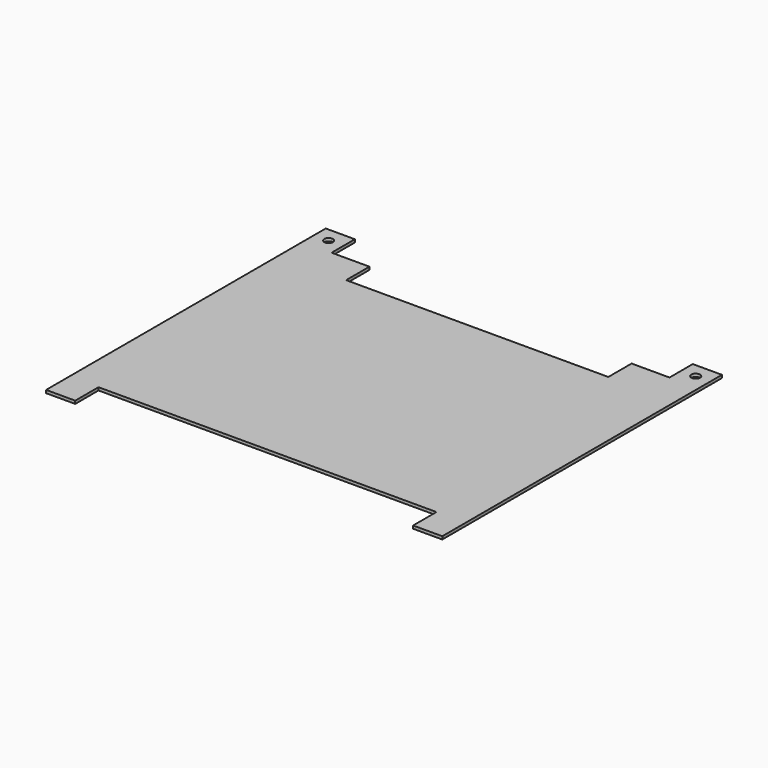
from build123d import *

# Parameters (mm, degrees)
F0_W     = 136
F0_H     = 120
F1_DEPTH = 1
F2_W     = 116
F2_H     = 10
F3_DEPTH = 1
F4_R     = 1.5
F5_DEPTH = 1


with BuildPart() as f1:
    # F0 (on Top) → F1 (new body)
    with BuildSketch(Plane.XY):
        Rectangle(F0_W, F0_H)
    extrude(amount=F1_DEPTH)

    # F2 (on face) → F3 (cut, through all)
    with BuildSketch(Plane.XY.offset(1)):
        Polygon((58, 60), (-58, 60), (-58, 50), (-45, 50), (-45, 40), (0, 40), (45, 40), (45, 50), (58, 50), align=None)
        with Locations((0, -55)):
            Rectangle(F2_W, F2_H)
    extrude(amount=-F3_DEPTH, mode=Mode.SUBTRACT)

    # F4 (on face) → F5 (cut, through all)
    with BuildSketch(Plane.XY.offset(1)):
        with Locations((-63, 55)):
            Circle(F4_R)
        with Locations((63, 55)):
            Circle(F4_R)
    extrude(amount=-F5_DEPTH, mode=Mode.SUBTRACT)


solid = f1.part
